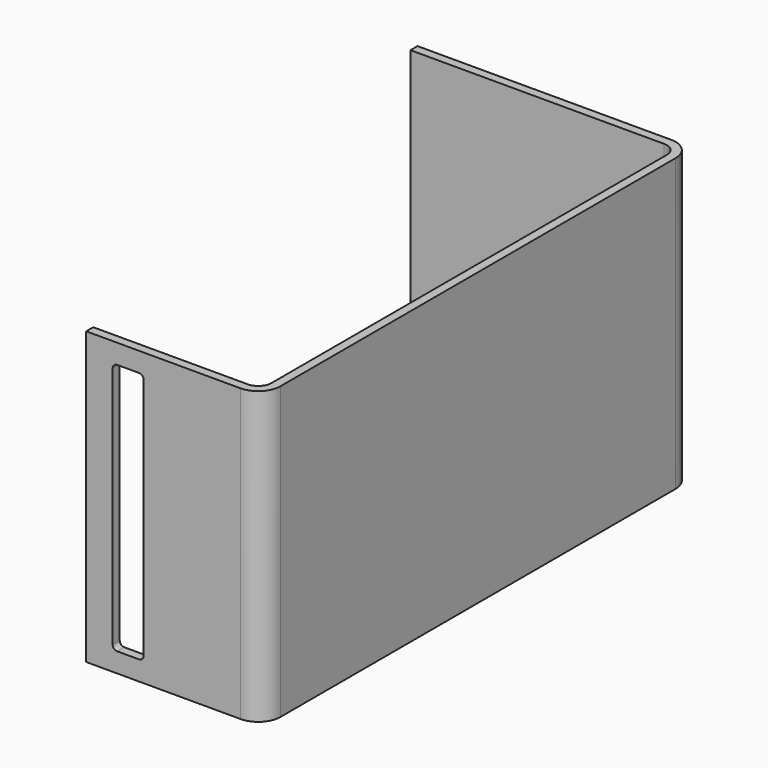
from build123d import *

# Parameters (mm, degrees)
F1_DEPTH = 66
F3_DEPTH = 25


with BuildPart() as f1:
    # F0 (on Top) → F1 (new body)
    with BuildSketch(Plane.XY):
        with BuildLine():
            Line((57.5, 0), (0, 0))
            Line((0, 0), (0, -2))
            Line((0, -2), (57.5, -2))
            ThreePointArc((57.5, -2), (59.62132, -2.87868), (60.5, -5))
            Line((60.5, -5), (60.5, -117))
            ThreePointArc((60.5, -117), (59.62132, -119.12132), (57.5, -120))
            Line((57.5, -120), (22.5, -120))
            Line((22.5, -120), (22.5, -122))
            Line((22.5, -122), (57.5, -122))
            ThreePointArc((57.5, -122), (61.035534, -120.535534), (62.5, -117))
            Line((62.5, -117), (62.5, -5))
            ThreePointArc((62.5, -5), (61.035534, -1.464466), (57.5, 0))
        make_face()
    extrude(amount=F1_DEPTH)

    # F2 (on face) → F3 (cut)
    with BuildSketch(Plane.XZ.offset(122)):
        with BuildLine():
            Line((34.5, 61.575), (29.5, 61.575))
            ThreePointArc((29.5, 61.575), (28.792893, 61.282107), (28.5, 60.575))
            Line((28.5, 60.575), (28.5, 5.425))
            ThreePointArc((28.5, 5.425), (28.792893, 4.717893), (29.5, 4.425))
            Line((29.5, 4.425), (34.5, 4.425))
            ThreePointArc((34.5, 4.425), (35.207107, 4.717893), (35.5, 5.425))
            Line((35.5, 5.425), (35.5, 60.575))
            ThreePointArc((35.5, 60.575), (35.207107, 61.282107), (34.5, 61.575))
        make_face()
    extrude(amount=-F3_DEPTH, mode=Mode.SUBTRACT)


solid = f1.part
